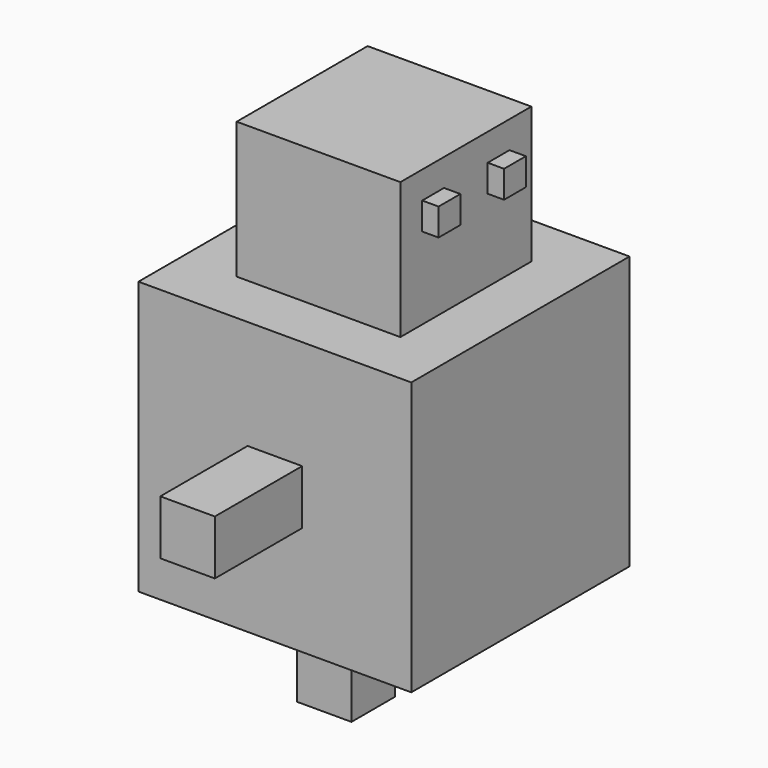
from build123d import *

# Parameters (mm, degrees)
F0_W      = 50
F0_H      = 50
F1_DEPTH  = 50
F2_W      = 30
F2_H      = 30
F3_DEPTH  = 25
F4_W      = 10
F4_H      = 10
F5_DEPTH  = 20
F6_W      = 10
F6_H      = 10
F7_DEPTH  = 20
F8_W      = 10
F8_H      = 10
F9_DEPTH  = 15
F10_W     = 5
F10_H     = 5
F11_DEPTH = 3


with BuildPart() as f1:
    # F0 (on Top) → F1 (new body)
    with BuildSketch(Plane.XY):
        with Locations((-25, 25)):
            Rectangle(F0_W, F0_H)
    extrude(amount=F1_DEPTH)

    # F2 (on face) → F3 (join)
    with BuildSketch(Plane.XY.offset(50)):
        with Locations((-25, 25)):
            Rectangle(F2_W, F2_H)
    extrude(amount=F3_DEPTH)

    # F4 (on face) → F5 (join)
    with BuildSketch(Plane.XZ):
        with Locations((-25, 25)):
            Rectangle(F4_W, F4_H)
    extrude(amount=F5_DEPTH)

    # F6 (on face) → F7 (join)
    with BuildSketch(Plane(origin=(0, 50, 0), x_dir=(-1, 0, 0), z_dir=(0, 1, 0))):
        with Locations((25, 25)):
            Rectangle(F6_W, F6_H)
    extrude(amount=F7_DEPTH)

    # F8 (on face) → F9 (join)
    with BuildSketch(Plane(origin=(0, 0, 0), x_dir=(1, 0, 0), z_dir=(0, 0, -1))):
        with Locations((-23.593899, -35)):
            Rectangle(F8_W, F8_H)
        with Locations((-23.962104, -15)):
            Rectangle(F8_W, F8_H)
    extrude(amount=F9_DEPTH)

    # F10 (on face) → F11 (join)
    with BuildSketch(Plane.YZ.offset(-10)):
        with Locations((17.5, 67.5)):
            Rectangle(F10_W, F10_H)
        with Locations((32.5, 67.5)):
            Rectangle(F10_W, F10_H)
    extrude(amount=F11_DEPTH)


solid = f1.part
